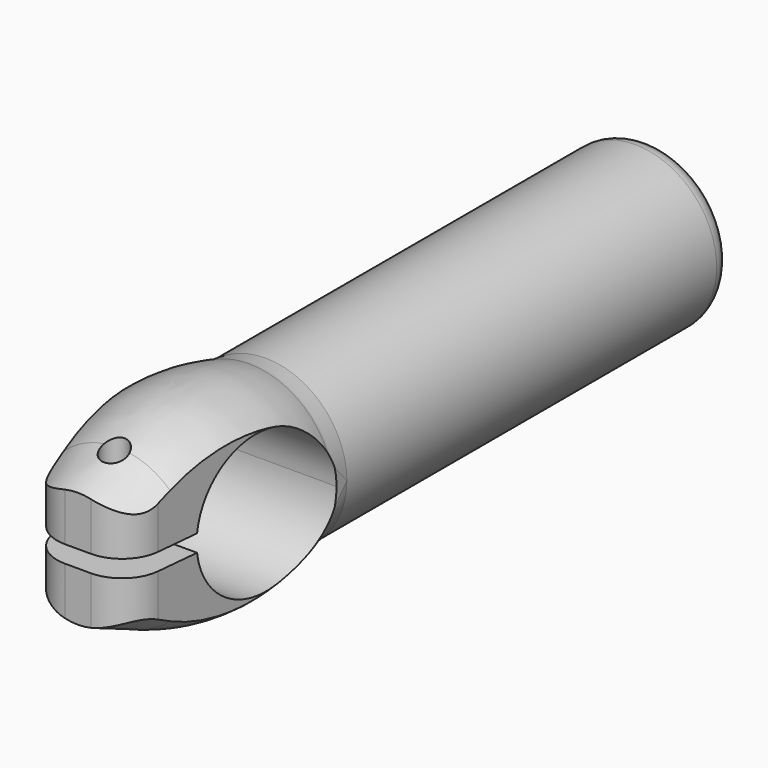
from build123d import *

# Parameters (mm, degrees)
F1_DEPTH = 12.5
F3_R     = 12.5
F4_DEPTH = 74
F5_R     = 10
F8_R     = 2
F9_DEPTH = 25
F10_R    = 3


with BuildPart() as f1:
    # F0 (on Right) → F1 (new body, symmetric)
    with BuildSketch(Plane.YZ):
        with BuildLine():
            ThreePointArc((-10.9212489831, 1.3138952199), (0.6581265782, 10.9802945956), (11, 0))
            Line((11, 0), (13, 0))
            Line((13, 0), (13, 12.5))
            ThreePointArc((13, 12.5), (-1.3107386008, 15.0012988608), (-15.5343561829, 12.0445374281))
            Line((-15.5343561829, 12.0445374281), (-23.0306010843, 8.9284532397))
            Line((-23.0306010843, 8.9284532397), (-23.0306010843, 1.3138952199))
            Line((-23.0306010843, 1.3138952199), (-10.9212489831, 1.3138952199))
        make_face()
    extrude(amount=F1_DEPTH, both=True)

    # F2: F1 across plane


with BuildPart() as f1_1:
    add(f1.part)
    add(f1.part.mirror(Plane.XY))

    # F3 (on face) → F4 (join)
    with BuildSketch(Plane(origin=(0, 13, 0), x_dir=(-1, 0, 0), z_dir=(0, 1, 0))):
        Circle(F3_R)
    extrude(amount=F4_DEPTH)

    # F5
    f5_edges = [f1_1.edges().sort_by_distance(p)[0] for p in [
        (12.5, -23.030601, 5.121174),
        (-12.5, -23.030601, 5.121174),
        (-12.5, -23.030601, -5.121174),
        (12.5, -23.030601, -5.121174),
    ]]
    fillet(f5_edges, radius=F5_R)

    # F6 (on Right) → F7 (revolve, cut)
    with BuildSketch(Plane.YZ):
        with BuildLine():
            ThreePointArc((9.8683147581, 13.0030242948), (11.414086549, 12.6265569062), (13, 12.5))
            Line((13, 12.5), (46, 12.5))
            Line((46, 12.5), (46, 22.5))
            Line((46, 22.5), (-23.0306010843, 22.5))
            Line((-23.0306010843, 22.5), (-23.0306010843, 8.9284532397))
            Line((-23.0306010843, 8.9284532397), (-15.5343561829, 12.0445374281))
            ThreePointArc((-15.5343561829, 12.0445374281), (-2.9192982664, 14.8103852911), (9.8683147581, 13.0030242948))
        make_face()
    revolve(axis=Axis((0, 5.5, 0), (0, 1, 0)), mode=Mode.SUBTRACT)

    # F8 (on Top) → F9 (cut, symmetric)
    with BuildSketch(Plane.XY):
        with Locations((0, -16.0306010843)):
            Circle(F8_R)
        with BuildLine():
            Line((-7.971597998, -17.6137111518), (-9.9523894576, 2.6714647925))
            Line((-9.9523894576, 2.6714647925), (-25, 0))
            Line((-25, 0), (-25, -50))
            Line((-25, -50), (25, -50))
            Line((25, -50), (25, 0))
            Line((25, 0), (9.9523894576, 2.6714647925))
            Line((9.9523894576, 2.6714647925), (7.971597998, -17.6137111518))
            ThreePointArc((7.971597998, -17.6137111518), (6.0312119514, -21.4746229342), (2, -23.0306010843))
            Line((2, -23.0306010843), (-2, -23.0306010843))
            ThreePointArc((-2, -23.0306010843), (-6.0312119514, -21.4746229342), (-7.971597998, -17.6137111518))
        make_face()
    extrude(amount=F9_DEPTH, both=True, mode=Mode.SUBTRACT)

    # F10
    f10_edges = [f1_1.edges().sort_by_distance(p)[0] for p in [
        (12.5, 87, 0),
    ]]
    fillet(f10_edges, radius=F10_R)


solid = f1_1.part
